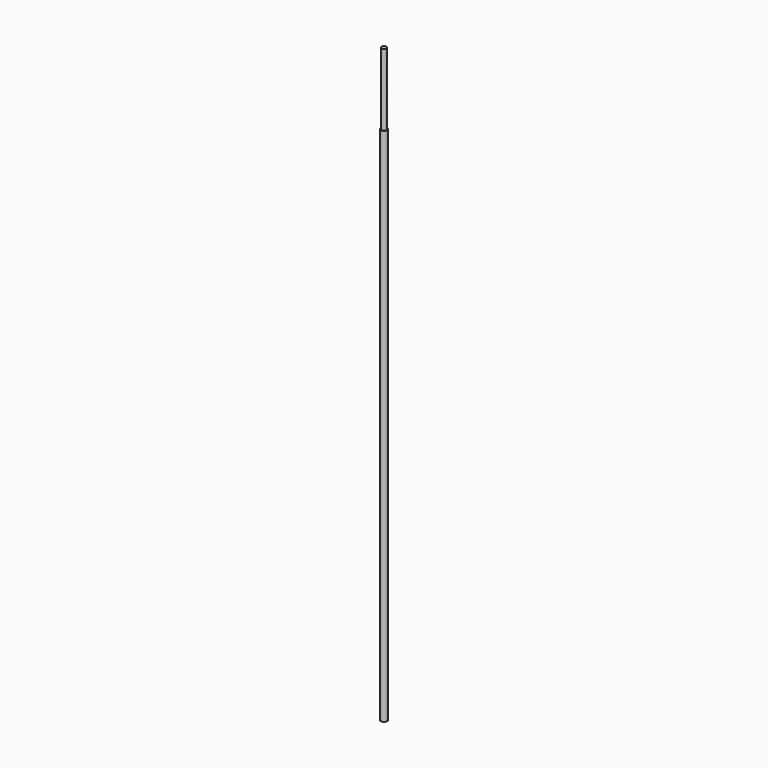
from build123d import *

# Parameters (mm, degrees)
F2_W     = 12
F2_H     = 12
F3_DEPTH = 4


with BuildPart() as f1:
    # F0 (on Front) → F1 (revolve)
    with BuildSketch(Plane.XZ):
        Polygon((0, 0), (0, 3300), (-14, 3300), (-14, 2900), (-18, 2900), (-18, 0), align=None)
    revolve(axis=Axis((0, 0, 1650), (0, 0, -1)))

    # F2 (on face) → F3 (cut)
    with BuildSketch(Plane(origin=(0, 0, 0), x_dir=(1, 0, 0), z_dir=(0, 0, -1))):
        Rectangle(F2_W, F2_H)
    extrude(amount=-F3_DEPTH, mode=Mode.SUBTRACT)


solid = f1.part
